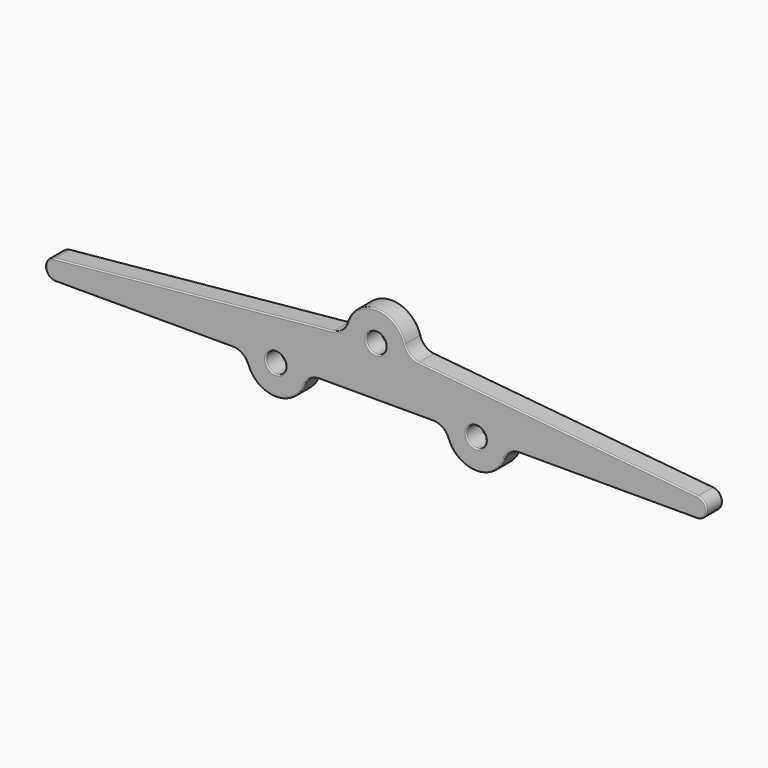
from build123d import *

# Parameters (mm, degrees)
F0_R     = 63.5
F1_DEPTH = 63.5
F2_R     = 7.62


with BuildPart() as f1:
    # F0 (on Front) → F1 (new body, symmetric)
    with BuildSketch(Plane.XZ):
        with BuildLine():
            Line((908.861005, -63.5), (2032, -63.5))
            ThreePointArc((2032, -63.5), (2095.377293, -3.945728), (2039.876206, 63.009645))
            Line((2039.876206, 63.009645), (270.845384, 233.962839))
            ThreePointArc((270.845384, 233.962839), (215.718143, 256.921724), (183.011831, 306.885913))
            ThreePointArc((183.011831, 306.885913), (0, 444.5), (-183.011831, 306.885913))
            ThreePointArc((-183.011831, 306.885913), (-215.718143, 256.921724), (-270.845384, 233.962839))
            Line((-270.845384, 233.962839), (-2039.876206, 63.009645))
            ThreePointArc((-2039.876206, 63.009645), (-2095.377293, -3.945728), (-2032, -63.5))
            Line((-2032, -63.5), (-908.861005, -63.5))
            ThreePointArc((-908.861005, -63.5), (-850.843316, -81.694318), (-813.605003, -129.76087))
            ThreePointArc((-813.605003, -129.76087), (-635, -254), (-456.394997, -129.76087))
            ThreePointArc((-456.394997, -129.76087), (-419.156684, -81.694318), (-361.138995, -63.5))
            Line((-361.138995, -63.5), (361.138995, -63.5))
            ThreePointArc((361.138995, -63.5), (419.156684, -81.694318), (456.394997, -129.76087))
            ThreePointArc((456.394997, -129.76087), (635, -254), (813.605003, -129.76087))
            ThreePointArc((813.605003, -129.76087), (850.843316, -81.694318), (908.861005, -63.5))
        make_face()
        with Locations((-635, -63.5)):
            Circle(F0_R, mode=Mode.SUBTRACT)
        with Locations((635, -63.5)):
            Circle(F0_R, mode=Mode.SUBTRACT)
        with BuildLine():
            ThreePointArc((7.876206, 317.009645), (47.604564, 296.024463), (63.5, 254))
            ThreePointArc((63.5, 254), (-42.024463, 206.395436), (-7.876206, 317.009645))
            Line((-7.876206, 317.009645), (0, 317.994171))
            Line((0, 317.994171), (7.876206, 317.009645))
        make_face(mode=Mode.SUBTRACT)
    extrude(amount=F1_DEPTH, both=True)

    # F2
    f2_edges = [f1.edges().sort_by_distance(p)[0] for p in [
        (-1155.360795, -63.5, 148.486242),
        (-1155.360795, 63.5, 148.486242),
        (0, -63.5, 190.5),
        (-698.5, -63.5, -63.5),
        (571.5, -63.5, -63.5),
        (1470.430502, -63.5, -63.5),
        (0, 63.5, 190.5),
        (571.5, 63.5, -63.5),
        (-698.5, 63.5, -63.5),
        (-1470.430502, -63.5, -63.5),
        (0, -63.5, -63.5),
        (-635, 63.5, -254),
    ]]
    fillet(f2_edges, radius=F2_R)


solid = f1.part
